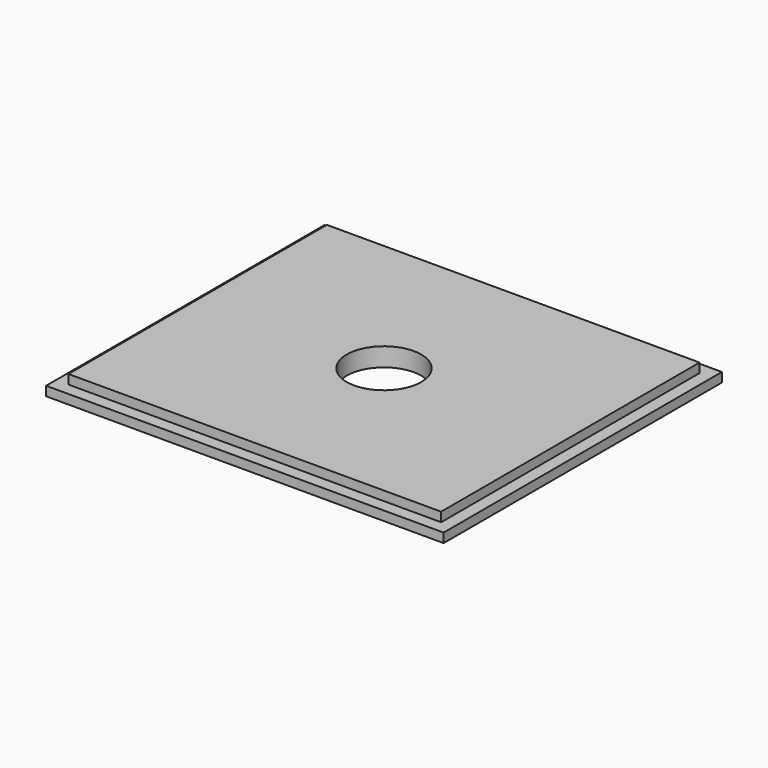
from build123d import *

# Parameters (mm, degrees)
F0_W     = 190.5
F0_H     = 165.1
F0_R     = 19.05
F1_DEPTH = 9.525
F0_W_2   = 203.2
F0_H_2   = 177.8
F2_DEPTH = 4.7625


with BuildPart() as f1:
    # F0 (on Top) → F1 (new body)
    with BuildSketch(Plane.XY):
        Rectangle(F0_W, F0_H)
        Circle(F0_R, mode=Mode.SUBTRACT)
    extrude(amount=F1_DEPTH)

    # F0 (on Top) → F2 (join)
    with BuildSketch(Plane.XY):
        Rectangle(F0_W_2, F0_H_2)
        Rectangle(F0_W, F0_H, mode=Mode.SUBTRACT)
    extrude(amount=F2_DEPTH)


solid = f1.part
